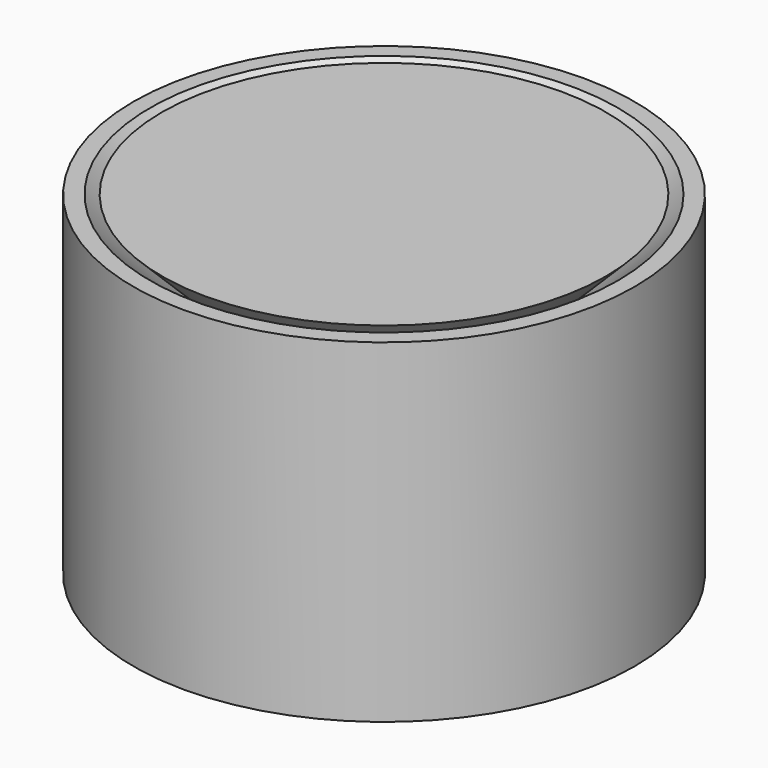
from build123d import *


with BuildPart() as f2:
    # F0 (on Front) + F1 (on Front) → F2 (revolve)
    with BuildSketch(Plane.XZ):
        Polygon((15, 0), (14, 0), (4, -10), (4, -11.5), (8, -15.5), (7, -16.5), (4.5, -19), (4.5, -20), (15, -20), align=None)
    with BuildSketch(Plane.XZ):
        Polygon((3.5, -11.707107), (3.5, -9.792893), (13.292893, 0), (0, 0), (0, -20), (4, -20), (4, -18.792893), (7.292893, -15.5), align=None)
    revolve(axis=Axis((0, 0, -10), (0, 0, -1)))


solid = f2.part
